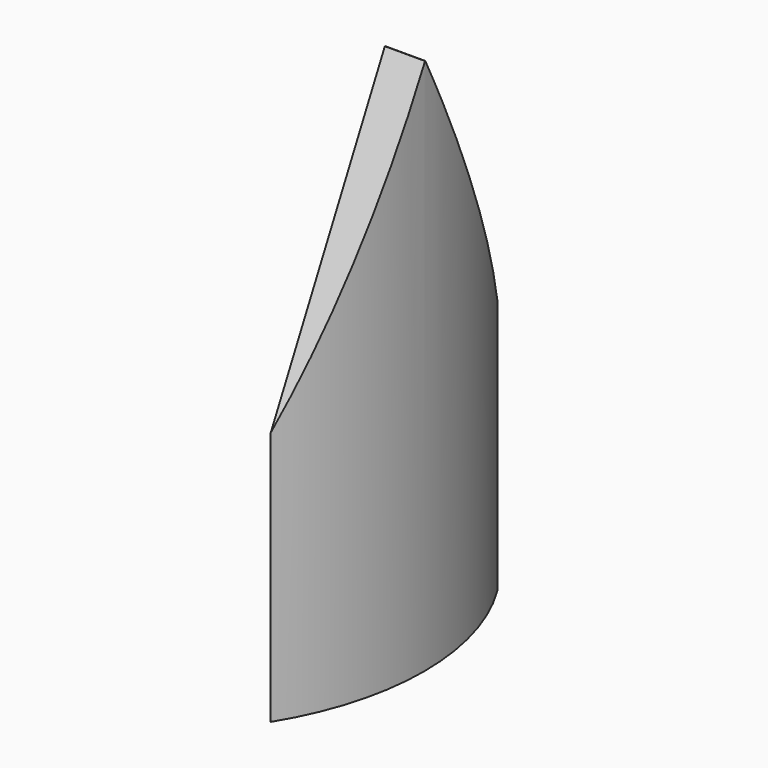
from build123d import *

# Parameters (mm, degrees)
F0_R     = 25.4
F1_DEPTH = 50.8
F3_DEPTH = 25.4


with BuildPart() as f1:
    # F0 (on Top) → F1 (new body)
    with BuildSketch(Plane.XY):
        with Locations((-21.6172, 16.476525)):
            Circle(F0_R)
    extrude(amount=F1_DEPTH)

    # F2 (on Right) → F3 (intersect)
    with BuildSketch(Plane.YZ):
        Polygon((16.59186, 50.831515), (-8.974211, 0.237603), (41.888818, 0.237603), align=None)
    extrude(amount=F3_DEPTH, mode=Mode.INTERSECT)


solid = f1.part
